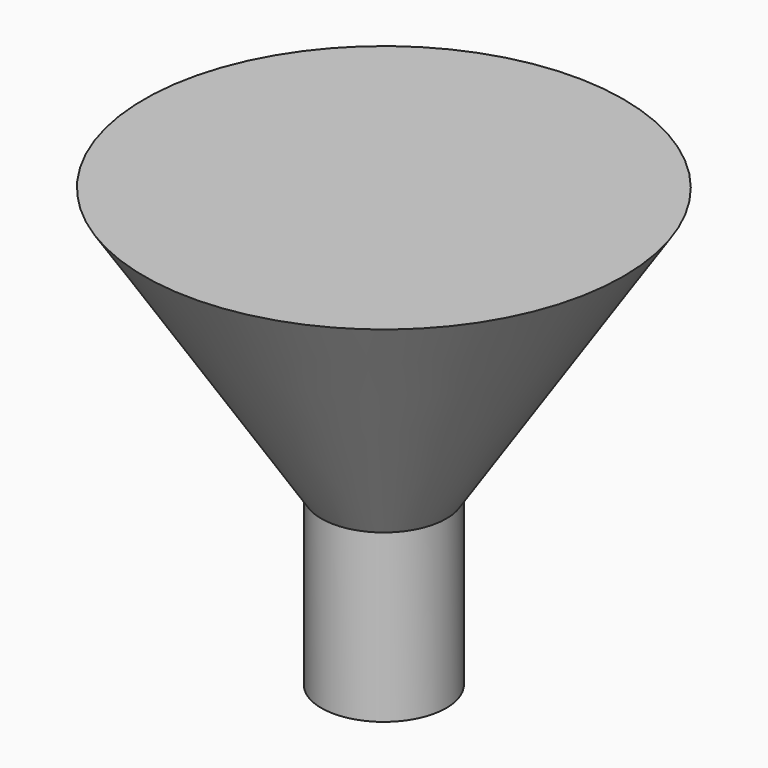
from build123d import *

# Parameters (mm, degrees)
F0_R     = 3
F2_DEPTH = 8
F3_R     = 3
F5_R     = 11.5


with BuildPart() as f2:
    # F0 (on Top) → F2 (new body)
    with BuildSketch(Plane.XY):
        Circle(F0_R)
    extrude(amount=F2_DEPTH)

    # F3 (on offset) → F6 section 0
    with BuildSketch(Plane.XY.offset(8)):
        Circle(F3_R)
    # F5 (on offset) → F6 section 1
    with BuildSketch(Plane.XY.offset(21)):
        Circle(F5_R)
    loft()


solid = f2.part
